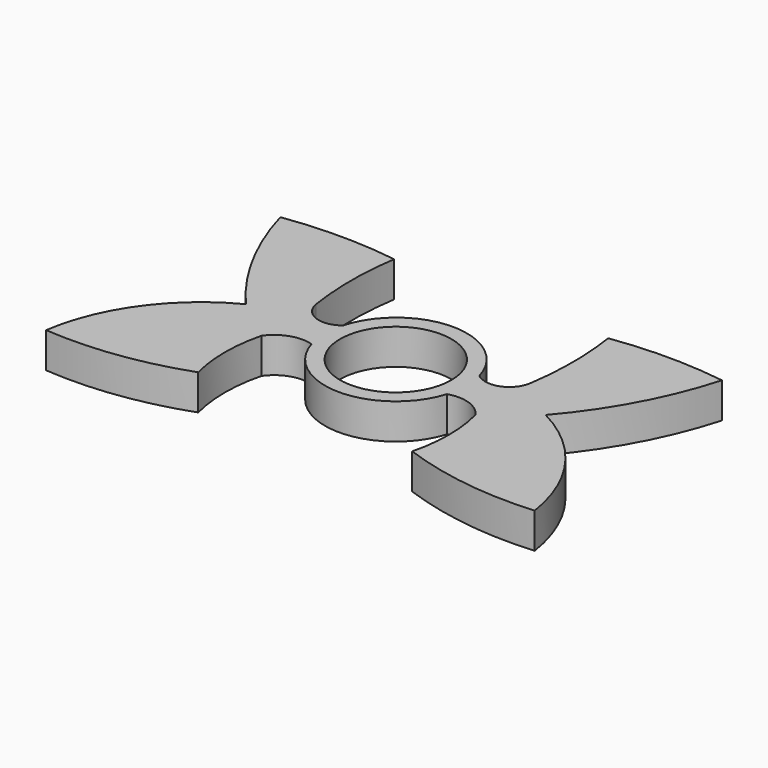
from build123d import *

# Parameters (mm, degrees)
F0_R     = 11
F1_DEPTH = 7


with BuildPart() as f1:
    # F0 (on Top) → F1 (new body)
    with BuildSketch(Plane.XY):
        with BuildLine():
            ThreePointArc((-13.464941, 3.833452), (-18.148705, 3.049193), (-21.154892, 6.725544))
            ThreePointArc((-21.154892, 6.725544), (-21.89436, 16.38587), (-21.154892, 26.046196))
            ThreePointArc((-21.154892, 26.046196), (-32.404892, 26.856296), (-43.654893, 26.046196))
            ThreePointArc((-43.654893, 26.046196), (-38.084471, 12.249847), (-29.639941, 0))
            ThreePointArc((-29.639941, 0), (-42.113917, -10.771095), (-48.301633, -26.046196))
            ThreePointArc((-48.301633, -26.046196), (-34.533943, -25.649924), (-21.154892, -22.377716))
            ThreePointArc((-21.154892, -22.377716), (-22.133153, -14.55163), (-21.154892, -6.725544))
            ThreePointArc((-21.154892, -6.725544), (-17.703988, -4.142188), (-13.393772, -4.075154))
            ThreePointArc((-13.393772, -4.075154), (0, -13.985142), (13.393772, -4.075154))
            ThreePointArc((13.393772, -4.075154), (17.703988, -4.142188), (21.154892, -6.725544))
            ThreePointArc((21.154892, -6.725544), (22.133153, -14.55163), (21.154892, -22.377716))
            ThreePointArc((21.154892, -22.377716), (34.533943, -25.649924), (48.301633, -26.046196))
            ThreePointArc((48.301633, -26.046196), (42.113917, -10.771095), (29.639941, 0))
            ThreePointArc((29.639941, 0), (38.084471, 12.249847), (43.654893, 26.046196))
            ThreePointArc((43.654893, 26.046196), (32.404892, 26.856296), (21.154892, 26.046196))
            ThreePointArc((21.154892, 26.046196), (21.89436, 16.38587), (21.154892, 6.725544))
            ThreePointArc((21.154892, 6.725544), (18.148705, 3.049193), (13.464941, 3.833452))
            ThreePointArc((13.464941, 3.833452), (0, 14.076018), (-13.464941, 3.833452))
        make_face()
        Circle(F0_R, mode=Mode.SUBTRACT)
    extrude(amount=F1_DEPTH)


solid = f1.part
